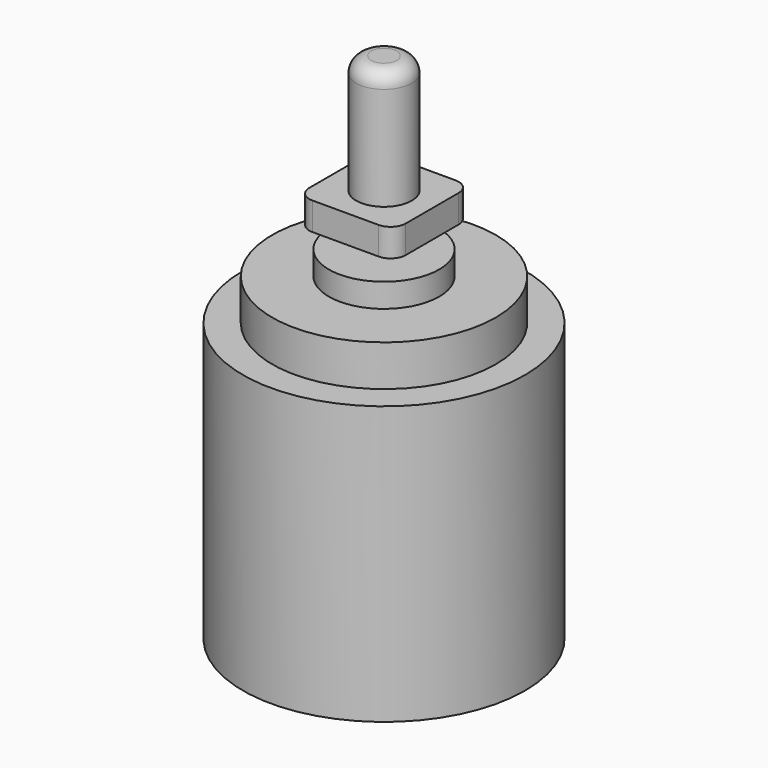
from build123d import *

# Parameters (mm, degrees)
F2_W     = 8.1026
F2_H     = 8.1026
F2_R     = 2.3368
F3_DEPTH = 2.3368
F4_R     = 1.27
F5_R     = 1.27


with BuildPart() as f1:
    # F0 (on Front) → F1 (revolve)
    with BuildSketch(Plane.XZ):
        Polygon((11.8491, -23.3426), (11.8491, 0), (9.398, 0), (9.398, 3.4544), (4.635883, 3.4544), (4.635883, 5.461), (1.016, 5.461), (1.016, 7.4676), (2.3368, 7.4676), (2.3368, 19.7612), (0, 19.7612), (0, -27.2542), (1.0033, -27.2542), (1.0033, -25.2476), (4.2291, -25.2476), (4.2291, -23.3426), align=None)
    revolve(axis=Axis((0, 0, -3.7465), (0, 0, -1)))

    # F2 (on face) → F3 (join)
    with BuildSketch(Plane(origin=(0, 0, 7.4676), x_dir=(1, 0, 0), z_dir=(0, 0, -1))):
        Rectangle(F2_W, F2_H)
        Circle(F2_R, mode=Mode.SUBTRACT)
    extrude(amount=-F3_DEPTH)

    # F4
    f4_edges = [f1.edges().sort_by_distance(p)[0] for p in [
        (4.0513, -4.0513, 8.636),
        (-4.0513, -4.0513, 8.636),
        (-4.0513, 4.0513, 8.636),
        (4.0513, 4.0513, 8.636),
    ]]
    fillet(f4_edges, radius=F4_R)

    # F5
    f5_edges = [f1.edges().sort_by_distance(p)[0] for p in [
        (-2.3368, 0, 19.7612),
    ]]
    fillet(f5_edges, radius=F5_R)


solid = f1.part
